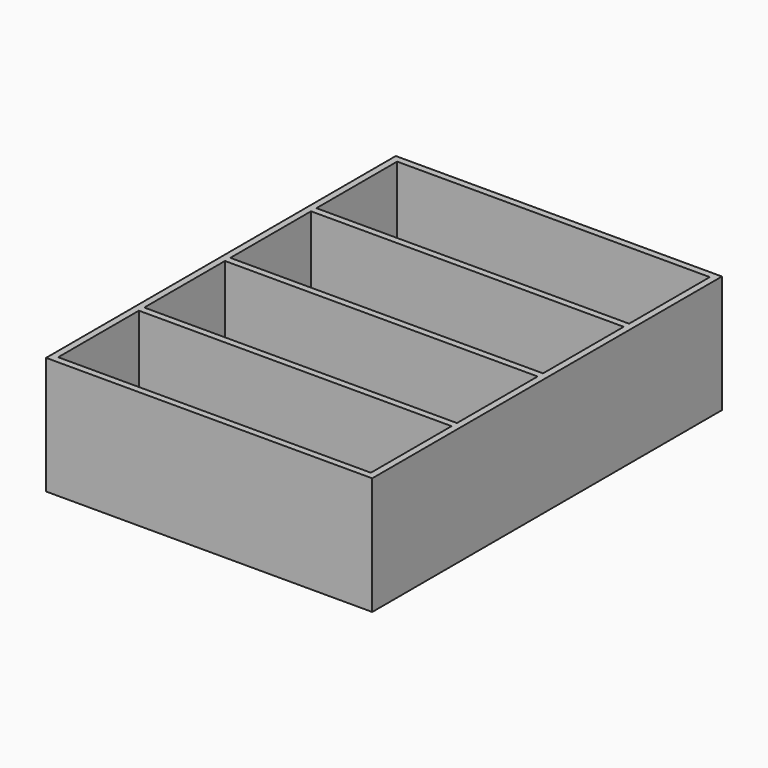
from build123d import *

# Parameters (mm, degrees)
F0_W     = 97
F0_H     = 130
F0_W_2   = 93
F0_H_2   = 30
F1_DEPTH = 35
F2_DEPTH = 2


with BuildPart() as f1:
    # F0 (on Top) → F1 (new body)
    with BuildSketch(Plane.XY):
        with Locations((0.344695, -1.031602)):
            Rectangle(F0_W, F0_H)
        with Locations((0.344695, -49.031602)):
            Rectangle(F0_W_2, F0_H_2, mode=Mode.SUBTRACT)
        with Locations((0.344695, -17.031602)):
            Rectangle(F0_W_2, F0_H_2, mode=Mode.SUBTRACT)
        with Locations((0.344695, 14.968398)):
            Rectangle(F0_W_2, F0_H_2, mode=Mode.SUBTRACT)
        with Locations((0.344695, 46.968398)):
            Rectangle(F0_W_2, F0_H_2, mode=Mode.SUBTRACT)
    extrude(amount=F1_DEPTH)

    # F0 (on Top) → F2 (join)
    with BuildSketch(Plane.XY):
        with Locations((0.344695, -49.031602)):
            Rectangle(F0_W_2, F0_H_2)
        with Locations((0.344695, -17.031602)):
            Rectangle(F0_W_2, F0_H_2)
        with Locations((0.344695, 14.968398)):
            Rectangle(F0_W_2, F0_H_2)
        with Locations((0.344695, 46.968398)):
            Rectangle(F0_W_2, F0_H_2)
    extrude(amount=F2_DEPTH)


solid = f1.part
